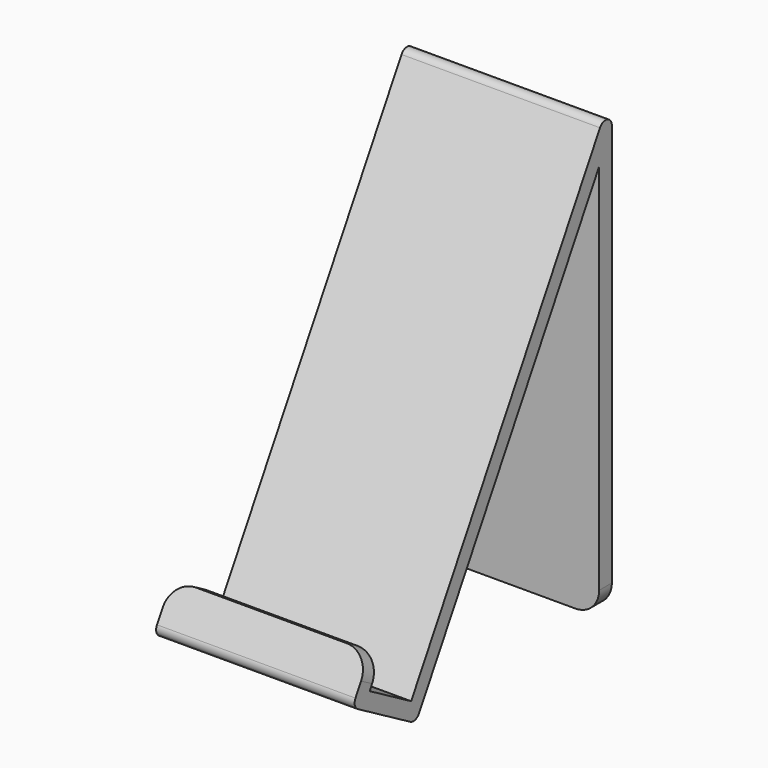
from build123d import *

# Parameters (mm, degrees)
F1_DEPTH = 12.5
F2_R     = 1
F3_R     = 3


with BuildPart() as f1:
    # F0 (on Right) → F1 (new body, symmetric)
    with BuildSketch(Plane.YZ):
        Polygon((-28.867513, -25), (0, 25), (0, -25), (2, -25), (2, 32.464102), (-29.599564, -22.267949), (-36.135463, -18.494447), (-34.248711, -15.226497), (-35.980762, -14.226497), (-38.867513, -19.226497), align=None)
    extrude(amount=F1_DEPTH, both=True)

    # F2
    f2_edges = [f1.edges().sort_by_distance(p)[0] for p in [
        (0, 2, 32.464102),
        (0, -38.867513, -19.226497),
        (0, -28.867513, -25),
    ]]
    fillet(f2_edges, radius=F2_R)

    # F3
    f3_edges = [f1.edges().sort_by_distance(p)[0] for p in [
        (12.5, 1, -25),
        (-12.5, 1, -25),
        (12.5, -35.114737, -14.726497),
        (-12.5, -35.114737, -14.726497),
    ]]
    fillet(f3_edges, radius=F3_R)


solid = f1.part
